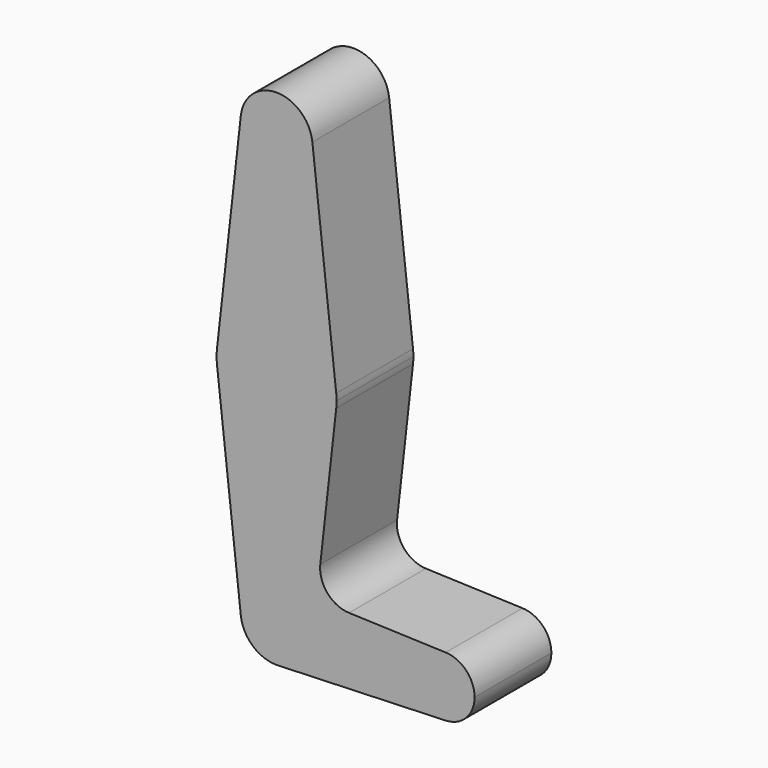
from build123d import *

# Parameters (mm, degrees)
F1_DEPTH = 25.4
F2_DEPTH = 25.4


with BuildPart() as f1:
    # F0 (on Front) → F1 (new body)
    with BuildSketch(Plane.XZ):
        with BuildLine():
            ThreePointArc((9.466021, 115.358333), (9.510244, 114.829988), (9.525, 114.3))
            ThreePointArc((9.525, 114.3), (-0.529988, 104.789756), (-9.466021, 115.358333))
            Line((-9.466021, 115.358333), (-15.776702, 58.913889))
            ThreePointArc((-15.776702, 58.913889), (0, 73.025), (15.776702, 58.913889))
            Line((15.776702, 58.913889), (9.466021, 115.358333))
        make_face()
        with BuildLine():
            ThreePointArc((15.776702, 55.386111), (0, 41.275), (-15.776702, 55.386111))
            Line((-15.776702, 55.386111), (-9.584346, 0))
            Line((-9.584346, 0), (-9.466021, -1.058333))
            ThreePointArc((-9.466021, -1.058333), (-0.529988, 9.510244), (9.525, 0))
            ThreePointArc((9.525, 0), (6.970557, -6.491299), (0.677344, -9.500886))
            Line((0.677344, -9.500886), (44.732405, -7.932475))
            ThreePointArc((44.732405, -7.932475), (36.5125, 0.000539), (44.733482, 7.932436))
            Line((44.733482, 7.932436), (19.177421, 8.845735))
            ThreePointArc((19.177421, 8.845735), (13.441912, 11.597409), (11.560384, 17.674219))
            Line((11.560384, 17.674219), (15.776702, 55.386111))
        make_face()
    extrude(amount=F1_DEPTH)


with BuildPart() as f2:
    # F0 (on Front) → F2 (new body)
    with BuildSketch(Plane.XZ):
        with BuildLine():
            ThreePointArc((-9.466021, 115.358333), (-0.529988, 104.789756), (9.525, 114.3))
            ThreePointArc((9.525, 114.3), (9.510244, 114.829988), (9.466021, 115.358333))
            ThreePointArc((9.466021, 115.358333), (0, 123.825), (-9.466021, 115.358333))
        make_face()
        with BuildLine():
            ThreePointArc((9.466021, 115.358333), (9.510244, 114.829988), (9.525, 114.3))
            ThreePointArc((9.525, 114.3), (-0.529988, 104.789756), (-9.466021, 115.358333))
            Line((-9.466021, 115.358333), (-15.776702, 58.913889))
            ThreePointArc((-15.776702, 58.913889), (0, 73.025), (15.776702, 58.913889))
            Line((15.776702, 58.913889), (9.466021, 115.358333))
        make_face()
        with BuildLine():
            ThreePointArc((15.875, 57.15), (15.850406, 58.033313), (15.776702, 58.913889))
            ThreePointArc((15.776702, 58.913889), (0, 73.025), (-15.776702, 58.913889))
            ThreePointArc((-15.776702, 58.913889), (-15.875, 57.15), (-15.776702, 55.386111))
            ThreePointArc((-15.776702, 55.386111), (0, 41.275), (15.776702, 55.386111))
            ThreePointArc((15.776702, 55.386111), (15.850406, 56.266687), (15.875, 57.15))
        make_face()
        with BuildLine():
            ThreePointArc((15.776702, 55.386111), (0, 41.275), (-15.776702, 55.386111))
            Line((-15.776702, 55.386111), (-9.584346, 0))
            Line((-9.584346, 0), (-9.466021, -1.058333))
            ThreePointArc((-9.466021, -1.058333), (-0.529988, 9.510244), (9.525, 0))
            ThreePointArc((9.525, 0), (6.970557, -6.491299), (0.677344, -9.500886))
            Line((0.677344, -9.500886), (44.732405, -7.932475))
            ThreePointArc((44.732405, -7.932475), (36.5125, 0.000539), (44.733482, 7.932436))
            Line((44.733482, 7.932436), (19.177421, 8.845735))
            ThreePointArc((19.177421, 8.845735), (13.441912, 11.597409), (11.560384, 17.674219))
            Line((11.560384, 17.674219), (15.776702, 55.386111))
        make_face()
        with BuildLine():
            ThreePointArc((9.525, 0), (-0.529988, 9.510244), (-9.466021, -1.058333))
            ThreePointArc((-9.466021, -1.058333), (-6.35, -7.099516), (0, -9.525))
            Line((0, -9.525), (0.677344, -9.500886))
            ThreePointArc((0.677344, -9.500886), (6.970557, -6.491299), (9.525, 0))
        make_face()
        with BuildLine():
            Line((0.677344, -9.500886), (0, -9.525))
            ThreePointArc((0, -9.525), (0.338886, -9.51897), (0.677344, -9.500886))
        make_face()
        with BuildLine():
            ThreePointArc((52.3875, 0), (50.162007, 5.511523), (44.733482, 7.932436))
            ThreePointArc((44.733482, 7.932436), (36.5125, 0.000539), (44.732405, -7.932475))
            ThreePointArc((44.732405, -7.932475), (50.161633, -5.51191), (52.3875, 0))
        make_face()
    extrude(amount=F2_DEPTH)


solid = Compound([f1.part, f2.part])
